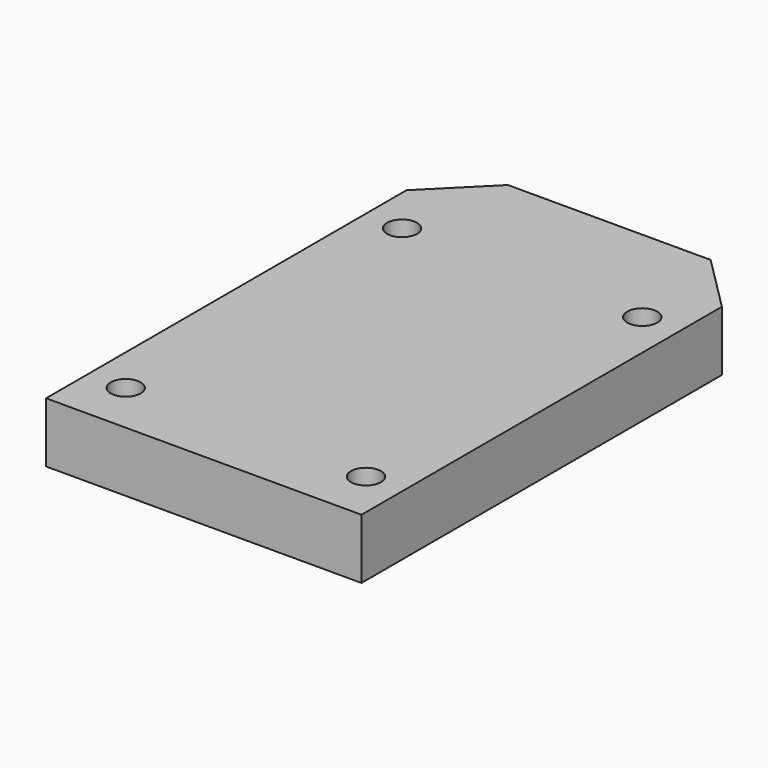
from build123d import *

# Parameters (mm, degrees)
F0_W     = 42
F0_H     = 60
F0_R     = 2
F1_DEPTH = 8
F3_DEPTH = 8


with BuildPart() as f1:
    # F0 (on Top) → F1 (new body)
    with BuildSketch(Plane.XY):
        Rectangle(F0_W, F0_H)
        with Locations((-16, -23)):
            Circle(F0_R, mode=Mode.SUBTRACT)
        with Locations((16, -23)):
            Circle(F0_R, mode=Mode.SUBTRACT)
        with Locations((-16, 23)):
            Circle(F0_R, mode=Mode.SUBTRACT)
        with Locations((16, 23)):
            Circle(F0_R, mode=Mode.SUBTRACT)
    extrude(amount=F1_DEPTH)

    # F2 (on face) → F3 (join)
    with BuildSketch(Plane.XY.offset(8)):
        Polygon((-13.5, 37.5), (-21, 30), (21, 30), (13.5, 37.5), align=None)
    extrude(amount=-F3_DEPTH)


solid = f1.part
